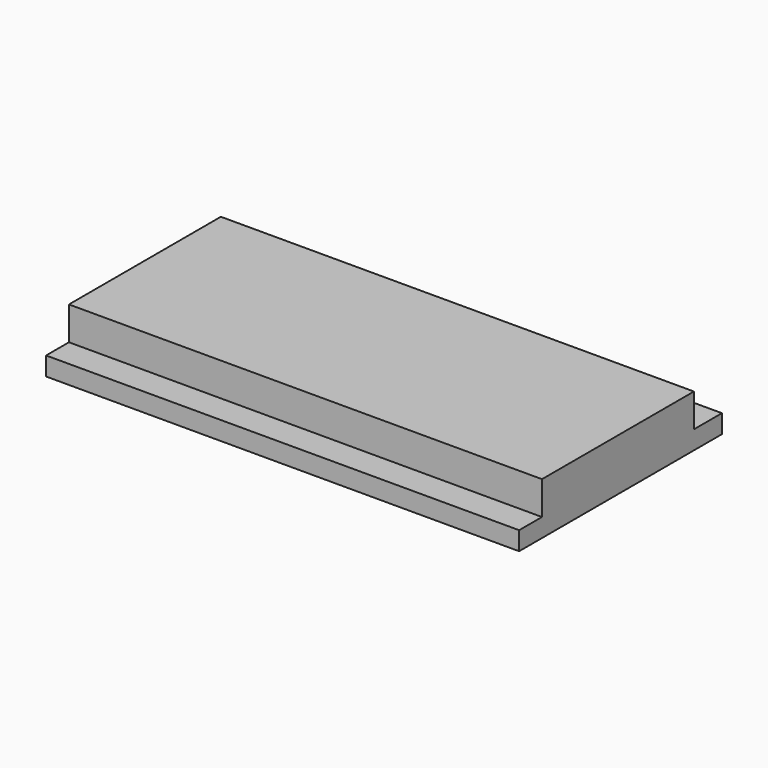
from build123d import *

# Parameters (mm, degrees)
F0_W     = 32
F0_H     = 3.1
F1_DEPTH = 100
F2_DEPTH = 90


with BuildPart() as f1:
    # F0 (on Right) → F1 (new body)
    with BuildSketch(Plane.YZ):
        Polygon((-24.5385469525, 0), (0, 0), (29.0492966146, 0), (29.0492966146, 3.9169512209), (21.6441504219, 3.9169512209), (21.6441504219, 10.9582875453), (-18.4965940373, 10.9582875453), (-18.4965940373, 3.9169512209), (-24.5385469525, 3.9169512209), align=None)
        with Locations((1.6276613058, 5.4589794578)):
            Rectangle(F0_W, F0_H, mode=Mode.SUBTRACT)
        with Locations((1.6276613058, 5.4589794578)):
            Rectangle(F0_W, F0_H)
    extrude(amount=F1_DEPTH)

    # F0 (on Right) → F2 (cut, through all)
    with BuildSketch(Plane.YZ):
        with Locations((1.6276613058, 5.4589794578)):
            Rectangle(F0_W, F0_H)
    extrude(amount=F2_DEPTH, mode=Mode.SUBTRACT)


solid = f1.part
